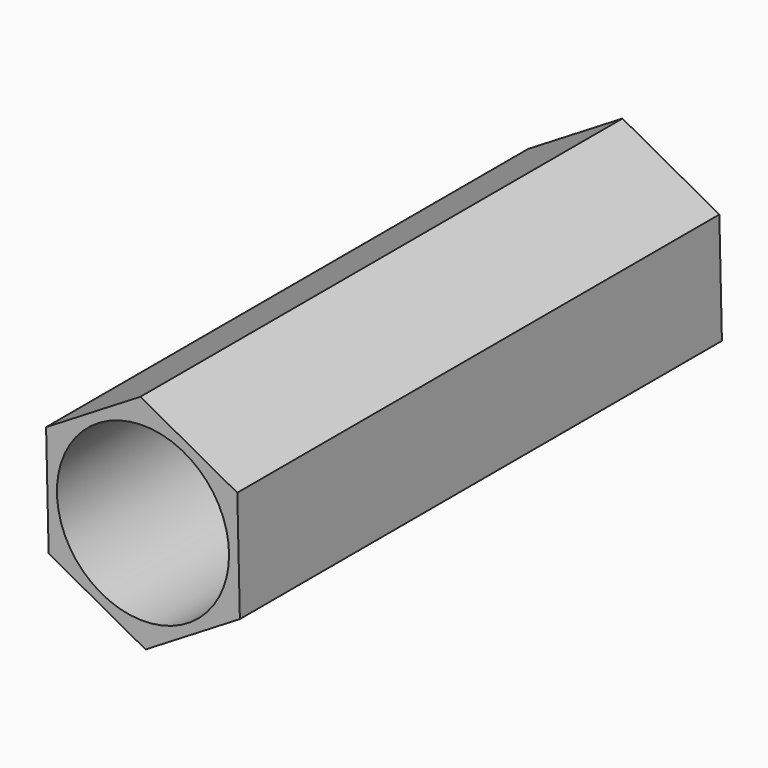
from build123d import *

# Parameters (mm, degrees)
F1_DEPTH = 35
F2_R     = 5
F3_DEPTH = 35


with BuildPart() as f1:
    # F0 (on Front) → F1 (new body)
    with BuildSketch(Plane.XZ):
        Polygon((-0.149898, 6.41261), (-5.628432, 3.07649), (-5.478534, -3.33612), (0.149898, -6.41261), (5.628432, -3.07649), (5.478534, 3.33612), align=None)
    extrude(amount=-F1_DEPTH)

    # F2 (on Front) → F3 (cut)
    with BuildSketch(Plane.XZ):
        Circle(F2_R)
    extrude(amount=-F3_DEPTH, mode=Mode.SUBTRACT)


solid = f1.part
